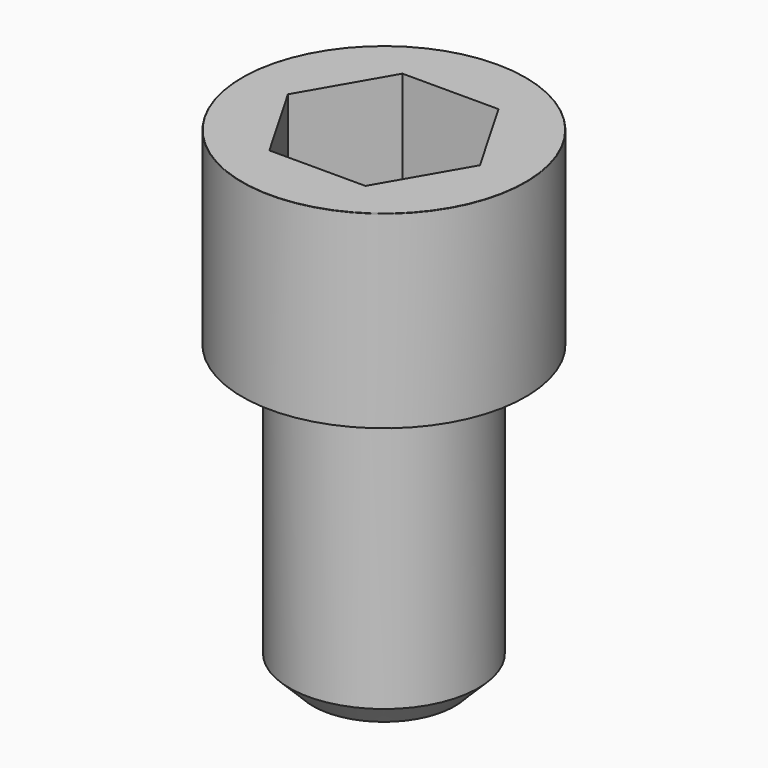
from build123d import *

# Parameters (mm, degrees)
POCKET_DEPTH = 14.08


with BuildPart() as part:
    # Sketch → Revolve (revolve)
    with BuildSketch(Plane.YZ):
        with BuildLine():
            Line((7.999, 0), (12, 0))
            Line((12, 0), (12, 15.97229))
            ThreePointArc((12, 15.97229), (11.991884, 15.991884), (11.97229, 16))
            Line((11.97229, 16), (0, 16))
            Line((0, -25), (0, 16))
            Line((6, -25), (0, -25))
            Line((8, -23), (6, -25))
            Line((8, -0.2), (8, -23))
            Line((7.999, 0), (8, -0.2))
        make_face()
    revolve(axis=Axis((0, 0, 0), (0, 0, 1)))

    # Sketch001 → Pocket (cut)
    with BuildSketch(Plane.XY.offset(16)):
        Polygon((8.129092, 0), (4.064546, 7.04), (-4.064546, 7.04), (-8.129092, 0), (-4.064546, -7.04), (4.064546, -7.04), align=None)
    extrude(amount=-POCKET_DEPTH, mode=Mode.SUBTRACT)


solid = part.part
